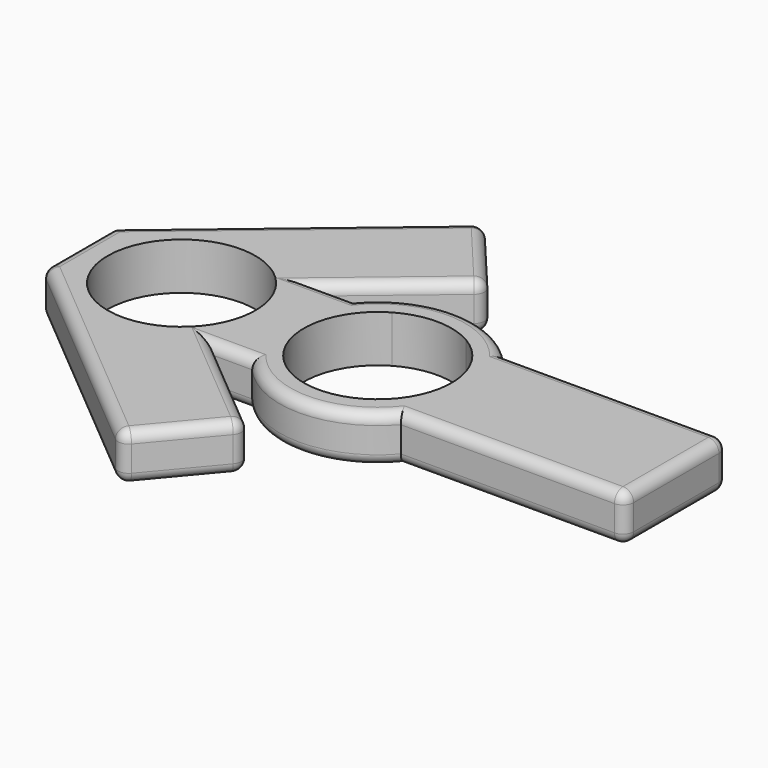
from build123d import *

# Parameters (mm, degrees)
F1_DEPTH = 7
F2_R     = 1.5875


with BuildPart() as f1:
    # F0 (on Top) → F1 (new body)
    with BuildSketch(Plane.XY):
        with BuildLine():
            ThreePointArc((11.0716033166, 9.525), (13.6931879312, 5.0796288526), (14.605, 0))
            Line((14.605, 0), (44.45, 0))
            Line((44.45, 0), (44.45, 9.525))
            Line((44.45, 9.525), (11.0716033166, 9.525))
        make_face()
        with BuildLine():
            Line((44.45, 0), (14.605, 0))
            ThreePointArc((14.605, 0), (13.6931879312, -5.0796288526), (11.0716033166, -9.525))
            Line((11.0716033166, -9.525), (44.45, -9.525))
            Line((44.45, -9.525), (44.45, 0))
        make_face()
        with BuildLine():
            ThreePointArc((-5.5022154629, 9.525), (0, 11), (5.5022154629, 9.525))
            Line((5.5022154629, 9.525), (11.0716033166, 9.525))
            ThreePointArc((11.0716033166, 9.525), (0, 14.605), (-11.0716033166, 9.525))
            Line((-11.0716033166, 9.525), (-5.5022154629, 9.525))
        make_face()
        with BuildLine():
            Line((11.0716033166, -9.525), (5.5022154629, -9.525))
            ThreePointArc((5.5022154629, -9.525), (0, -11), (-5.5022154629, -9.525))
            Line((-5.5022154629, -9.525), (-11.0716033166, -9.525))
            ThreePointArc((-11.0716033166, -9.525), (0, -14.605), (11.0716033166, -9.525))
        make_face()
        with BuildLine():
            Line((-16.9569512222, -9.525), (-11.0716033166, -9.525))
            ThreePointArc((-11.0716033166, -9.525), (-13.6931879312, -5.0796288526), (-14.605, 0))
            Line((-14.605, 0), (-18.21, 0))
            ThreePointArc((-18.21, 0), (-29.21, -11), (-40.21, 0))
            Line((-40.21, 0), (-44.45, 0))
            Line((-44.45, 0), (-44.45, -6.35))
            Line((-44.45, -6.35), (-11.3722009461, -34.1055689863))
            Line((-11.3722009461, -34.1055689863), (-1.5761177745, -22.4310516731))
            Line((-1.5761177745, -22.4310516731), (-16.9569512222, -9.525))
        make_face()
        with BuildLine():
            ThreePointArc((5.5022154629, 9.525), (9.5269189692, 5.498892157), (11, 0))
            Line((11, 0), (14.605, 0))
            ThreePointArc((14.605, 0), (13.6931879312, 5.0796288526), (11.0716033166, 9.525))
            Line((11.0716033166, 9.525), (5.5022154629, 9.525))
        make_face()
        with BuildLine():
            ThreePointArc((-11, 0), (-9.5269189692, 5.498892157), (-5.5022154629, 9.525))
            Line((-5.5022154629, 9.525), (-11.0716033166, 9.525))
            ThreePointArc((-11.0716033166, 9.525), (-13.6931879312, 5.0796288526), (-14.605, 0))
            Line((-14.605, 0), (-11, 0))
        make_face()
        with BuildLine():
            Line((-11.0716033166, -9.525), (-5.5022154629, -9.525))
            ThreePointArc((-5.5022154629, -9.525), (-9.5269189692, -5.498892157), (-11, 0))
            Line((-11, 0), (-14.605, 0))
            ThreePointArc((-14.605, 0), (-13.6931879312, -5.0796288526), (-11.0716033166, -9.525))
        make_face()
        with BuildLine():
            Line((14.605, 0), (11, 0))
            ThreePointArc((11, 0), (9.5269189692, -5.498892157), (5.5022154629, -9.525))
            Line((5.5022154629, -9.525), (11.0716033166, -9.525))
            ThreePointArc((11.0716033166, -9.525), (13.6931879312, -5.0796288526), (14.605, 0))
        make_face()
        with BuildLine():
            ThreePointArc((-14.605, 0), (-13.6931879312, 5.0796288526), (-11.0716033166, 9.525))
            Line((-11.0716033166, 9.525), (-16.9569512222, 9.525))
            Line((-16.9569512222, 9.525), (-1.5761177745, 22.4310516731))
            Line((-1.5761177745, 22.4310516731), (-11.3722009461, 34.1055689863))
            Line((-11.3722009461, 34.1055689863), (-44.45, 6.35))
            Line((-44.45, 6.35), (-44.45, 0))
            Line((-44.45, 0), (-40.21, 0))
            ThreePointArc((-40.21, 0), (-29.21, 11), (-18.21, 0))
            Line((-18.21, 0), (-14.605, 0))
        make_face()
    extrude(amount=F1_DEPTH)

    # F2
    f2_edges = [f1.edges().sort_by_distance(p)[0] for p in [
        (-44.45, -6.35, 3.5),
        (-11.372201, -34.105569, 3.5),
        (-27.9111, -20.227784, 0),
        (-27.9111, -20.227784, 7),
        (-1.576118, -22.431052, 3.5),
        (-6.474159, -28.26831, 0),
        (-6.474159, -28.26831, 7),
        (44.45, -9.525, 3.5),
        (44.45, 9.525, 3.5),
        (44.45, 0, 0),
        (44.45, 0, 7),
        (-1.576118, 22.431052, 3.5),
        (-11.372201, 34.105569, 3.5),
        (-6.474159, 28.26831, 0),
        (-6.474159, 28.26831, 7),
        (-44.45, 0, 7),
        (-44.45, 6.35, 3.5),
        (-44.45, 0, 0),
        (-27.9111, 20.227784, 0),
        (-27.9111, 20.227784, 7),
        (-9.266534, 15.978026, 7),
        (-14.014277, 9.525, 7),
        (-9.266534, 15.978026, 0),
        (-14.014277, 9.525, 0),
        (0, 14.605, 0),
        (0, 14.605, 7),
        (27.760802, 9.525, 7),
        (27.760802, 9.525, 0),
        (27.760802, -9.525, 7),
        (0, -14.605, 7),
        (-14.014277, -9.525, 7),
        (-9.266534, -15.978026, 7),
        (-9.266534, -15.978026, 0),
        (27.760802, -9.525, 0),
        (0, -14.605, 0),
        (-14.014277, -9.525, 0),
    ]]
    fillet(f2_edges, radius=F2_R)


solid = f1.part
